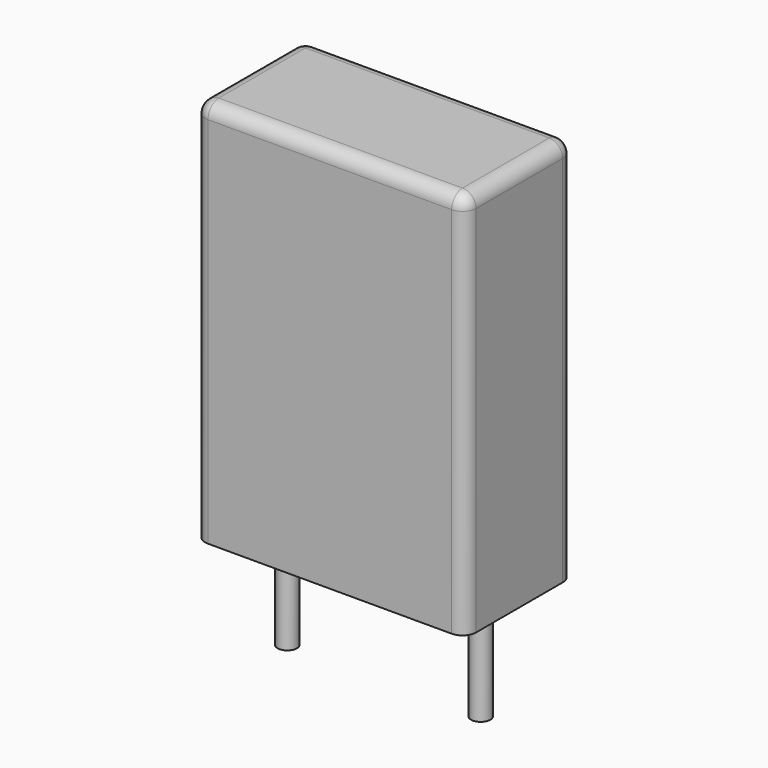
from build123d import *

# Parameters (mm, degrees)
SKETCH_W     = 7
SKETCH_H     = 3.5
PAD_DEPTH    = 10
FILLET_R     = 0.35
SKETCH001_R  = 0.25
PAD001_DEPTH = 3.2


with BuildPart() as fillet_body:
    # Sketch → Pad (new body)
    with BuildSketch(Plane.XY.offset(0.1)):
        with Locations((2.5, 0)):
            Rectangle(SKETCH_W, SKETCH_H)
    extrude(amount=PAD_DEPTH)

    # Fillet
    fillet_edges = [fillet_body.edges().sort_by_distance(p)[0] for p in [
        (-1, 0, 10.1),
        (-1, -1.75, 5.1),
        (2.5, -1.75, 10.1),
        (6, -1.75, 5.1),
        (6, 0, 10.1),
        (6, 1.75, 5.1),
        (2.5, 1.75, 10.1),
        (-1, 1.75, 5.1),
    ]]
    fillet(fillet_edges, radius=FILLET_R)


with BuildPart() as pad001:
    # Sketch001 → Pad001 (new body)
    with BuildSketch(Plane.XY.offset(0.5)):
        Circle(SKETCH001_R)
        with Locations((5, 0)):
            Circle(SKETCH001_R)
    extrude(amount=-PAD001_DEPTH)


solid = Compound([fillet_body.part, pad001.part])
